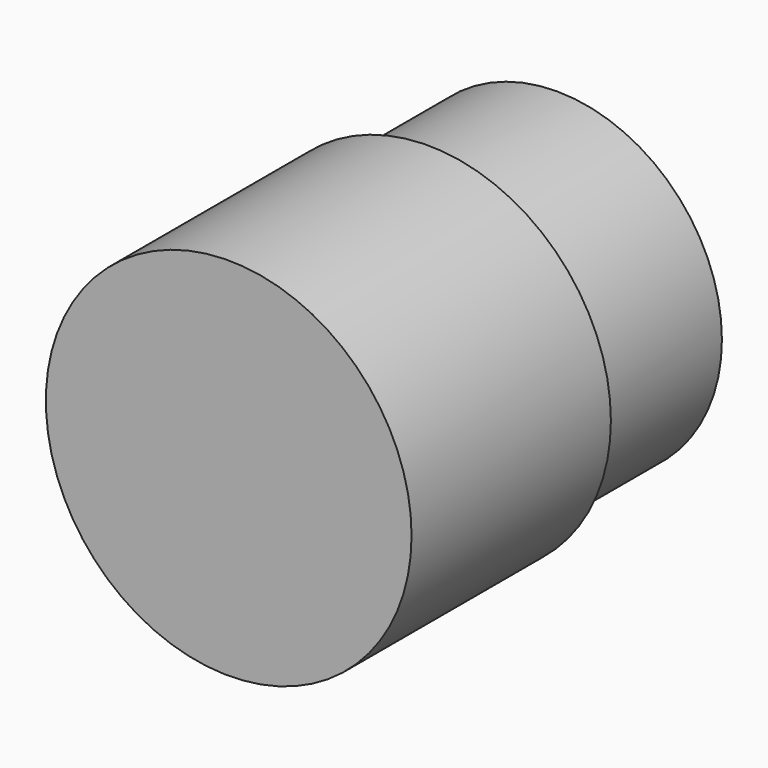
from build123d import *

# Parameters (mm, degrees)
SKETCH133_R             = 2.25
PAD094_DEPTH            = 2.2
SKETCH134_R             = 2.495
PAD095_DEPTH            = 3.4
POCKET038_DEPTH         = 4.4
POLARPATTERN001_COUNT   = 80
BODY031_PLACEMENT_ANGLE = 90


with BuildPart() as part:
    # Sketch133 → Pad094 (new body)
    with BuildSketch(Plane.XY):
        Circle(SKETCH133_R)
    extrude(amount=PAD094_DEPTH)

    # Sketch134 (on Face3 of Pad094) → Pad095 (join)
    with BuildSketch(Plane.XY.offset(2.2)):
        Circle(SKETCH134_R)
    extrude(amount=PAD095_DEPTH)

    # Sketch135 (on Face3 of Pad095) → Pocket038 (cut)
    with BuildSketch(Plane.XY.offset(5.6)):
        Polygon((3.3, 0.172946), (3, 0), (3.3, -0.172946), align=None)
    pocket038 = extrude(amount=-POCKET038_DEPTH, mode=Mode.SUBTRACT)

    # PolarPattern001: Pocket038 ×80 about axis
    polarpattern001_axis = Axis((0, 0, 5.6), (0, 0, 1))
    for i in range(1, POLARPATTERN001_COUNT):
        add(pocket038.rotate(polarpattern001_axis, i * 360 / POLARPATTERN001_COUNT), mode=Mode.SUBTRACT)


with BuildPart() as part_1:
    # Body031 placement: moved
    add(part.part.moved(Location((0.4, 26.3, 17.4))).rotate(Axis((0.4, 26.3, 17.4), (1, 0, 0)), BODY031_PLACEMENT_ANGLE))


solid = part_1.part
